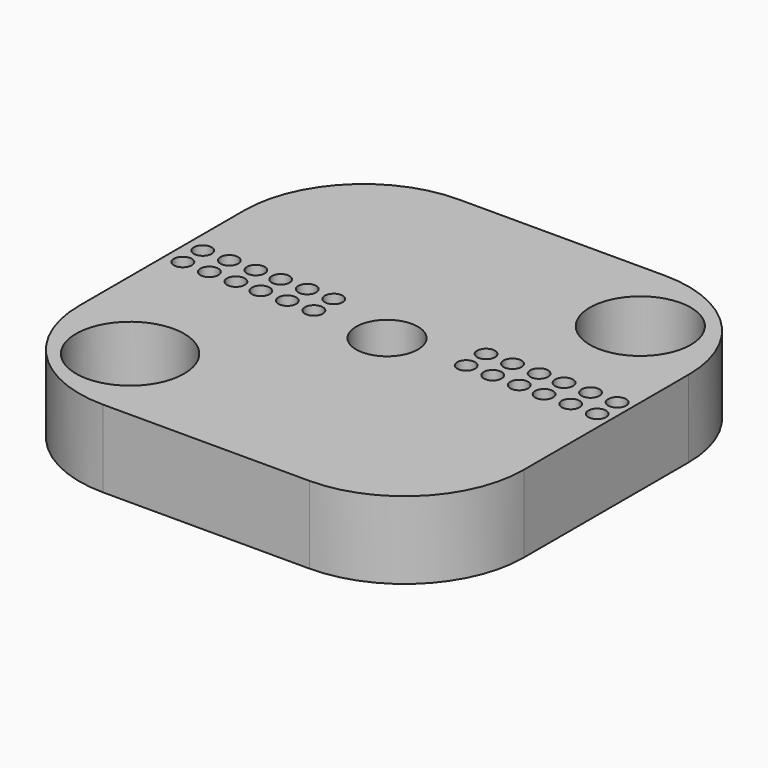
from build123d import *

# Parameters (mm, degrees)
SKETCH_R     = 12
SKETCH_R_2   = 21
SKETCH_R_3   = 19.584537
SKETCH_R_4   = 3.467704
PAD_DEPTH    = 30
PAD001_DEPTH = 30


with BuildPart() as part:
    # Sketch → Pad (new body)
    with BuildSketch(Plane.XY):
        with BuildLine():
            Line((-35.584206, -63.111127), (44.415794, -63.111127))
            ThreePointArc((44.415794, -63.111127), (77.13309, -49.55918), (90.685038, -16.841884))
            Line((90.685038, -16.841884), (90.685038, 63.158116))
            ThreePointArc((90.685038, 63.158116), (77.13309, 95.875412), (44.415794, 109.427359))
            Line((44.415794, 109.427359), (-35.584206, 109.427359))
            ThreePointArc((-35.584206, 109.427359), (-68.301501, 95.875412), (-81.853449, 63.158116))
            Line((-81.853449, 63.158116), (-81.853449, -16.841884))
            ThreePointArc((-81.853449, -16.841884), (-68.301501, -49.55918), (-35.584206, -63.111127))
        make_face()
        with Locations((4.306361, 24.767706)):
            Circle(SKETCH_R, mode=Mode.SUBTRACT)
        with Locations((-50.106209, -31.898642)):
            Circle(SKETCH_R_2, mode=Mode.SUBTRACT)
        with Locations((59.362869, 78.858307)):
            Circle(SKETCH_R_3, mode=Mode.SUBTRACT)
        with Locations((-75.219696, 34.748711)):
            Circle(SKETCH_R_4, mode=Mode.SUBTRACT)
        with Locations((-64.916733, 34.748711)):
            Circle(SKETCH_R_4, mode=Mode.SUBTRACT)
        with Locations((-54.613762, 34.748711)):
            Circle(SKETCH_R_4, mode=Mode.SUBTRACT)
        with Locations((-44.954719, 34.748711)):
            Circle(SKETCH_R_4, mode=Mode.SUBTRACT)
        with Locations((-34.651756, 34.748711)):
            Circle(SKETCH_R_4, mode=Mode.SUBTRACT)
        with Locations((-24.348785, 34.748711)):
            Circle(SKETCH_R_4, mode=Mode.SUBTRACT)
        with Locations((-75.219696, 25.089674)):
            Circle(SKETCH_R_4, mode=Mode.SUBTRACT)
        with Locations((-64.916733, 25.089674)):
            Circle(SKETCH_R_4, mode=Mode.SUBTRACT)
        with Locations((-54.613762, 25.089674)):
            Circle(SKETCH_R_4, mode=Mode.SUBTRACT)
        with Locations((-44.954719, 25.089674)):
            Circle(SKETCH_R_4, mode=Mode.SUBTRACT)
        with Locations((-34.651756, 25.089674)):
            Circle(SKETCH_R_4, mode=Mode.SUBTRACT)
        with Locations((-24.348785, 25.089674)):
            Circle(SKETCH_R_4, mode=Mode.SUBTRACT)
        with Locations((34.249382, 35.392641)):
            Circle(SKETCH_R_4, mode=Mode.SUBTRACT)
        with Locations((44.552345, 35.392641)):
            Circle(SKETCH_R_4, mode=Mode.SUBTRACT)
        with Locations((54.855316, 35.392641)):
            Circle(SKETCH_R_4, mode=Mode.SUBTRACT)
        with Locations((64.514359, 35.392641)):
            Circle(SKETCH_R_4, mode=Mode.SUBTRACT)
        with Locations((74.817322, 35.392641)):
            Circle(SKETCH_R_4, mode=Mode.SUBTRACT)
        with Locations((85.120293, 35.392641)):
            Circle(SKETCH_R_4, mode=Mode.SUBTRACT)
        with Locations((34.249382, 25.733604)):
            Circle(SKETCH_R_4, mode=Mode.SUBTRACT)
        with Locations((44.552345, 25.733604)):
            Circle(SKETCH_R_4, mode=Mode.SUBTRACT)
        with Locations((54.855316, 25.733604)):
            Circle(SKETCH_R_4, mode=Mode.SUBTRACT)
        with Locations((64.514359, 25.733604)):
            Circle(SKETCH_R_4, mode=Mode.SUBTRACT)
        with Locations((74.817322, 25.733604)):
            Circle(SKETCH_R_4, mode=Mode.SUBTRACT)
        with Locations((85.120293, 25.733604)):
            Circle(SKETCH_R_4, mode=Mode.SUBTRACT)
    extrude(amount=PAD_DEPTH)

    # Sketch → Pad001 (join)
    with BuildSketch(Plane.XY):
        with BuildLine():
            Line((-35.584206, -63.111127), (44.415794, -63.111127))
            ThreePointArc((44.415794, -63.111127), (77.13309, -49.55918), (90.685038, -16.841884))
            Line((90.685038, -16.841884), (90.685038, 63.158116))
            ThreePointArc((90.685038, 63.158116), (77.13309, 95.875412), (44.415794, 109.427359))
            Line((44.415794, 109.427359), (-35.584206, 109.427359))
            ThreePointArc((-35.584206, 109.427359), (-68.301501, 95.875412), (-81.853449, 63.158116))
            Line((-81.853449, 63.158116), (-81.853449, -16.841884))
            ThreePointArc((-81.853449, -16.841884), (-68.301501, -49.55918), (-35.584206, -63.111127))
        make_face()
        with Locations((4.306361, 24.767706)):
            Circle(SKETCH_R, mode=Mode.SUBTRACT)
        with Locations((-50.106209, -31.898642)):
            Circle(SKETCH_R_2, mode=Mode.SUBTRACT)
        with Locations((59.362869, 78.858307)):
            Circle(SKETCH_R_3, mode=Mode.SUBTRACT)
        with Locations((-75.219696, 34.748711)):
            Circle(SKETCH_R_4, mode=Mode.SUBTRACT)
        with Locations((-64.916733, 34.748711)):
            Circle(SKETCH_R_4, mode=Mode.SUBTRACT)
        with Locations((-54.613762, 34.748711)):
            Circle(SKETCH_R_4, mode=Mode.SUBTRACT)
        with Locations((-44.954719, 34.748711)):
            Circle(SKETCH_R_4, mode=Mode.SUBTRACT)
        with Locations((-34.651756, 34.748711)):
            Circle(SKETCH_R_4, mode=Mode.SUBTRACT)
        with Locations((-24.348785, 34.748711)):
            Circle(SKETCH_R_4, mode=Mode.SUBTRACT)
        with Locations((-75.219696, 25.089674)):
            Circle(SKETCH_R_4, mode=Mode.SUBTRACT)
        with Locations((-64.916733, 25.089674)):
            Circle(SKETCH_R_4, mode=Mode.SUBTRACT)
        with Locations((-54.613762, 25.089674)):
            Circle(SKETCH_R_4, mode=Mode.SUBTRACT)
        with Locations((-44.954719, 25.089674)):
            Circle(SKETCH_R_4, mode=Mode.SUBTRACT)
        with Locations((-34.651756, 25.089674)):
            Circle(SKETCH_R_4, mode=Mode.SUBTRACT)
        with Locations((-24.348785, 25.089674)):
            Circle(SKETCH_R_4, mode=Mode.SUBTRACT)
        with Locations((34.249382, 35.392641)):
            Circle(SKETCH_R_4, mode=Mode.SUBTRACT)
        with Locations((44.552345, 35.392641)):
            Circle(SKETCH_R_4, mode=Mode.SUBTRACT)
        with Locations((54.855316, 35.392641)):
            Circle(SKETCH_R_4, mode=Mode.SUBTRACT)
        with Locations((64.514359, 35.392641)):
            Circle(SKETCH_R_4, mode=Mode.SUBTRACT)
        with Locations((74.817322, 35.392641)):
            Circle(SKETCH_R_4, mode=Mode.SUBTRACT)
        with Locations((85.120293, 35.392641)):
            Circle(SKETCH_R_4, mode=Mode.SUBTRACT)
        with Locations((34.249382, 25.733604)):
            Circle(SKETCH_R_4, mode=Mode.SUBTRACT)
        with Locations((44.552345, 25.733604)):
            Circle(SKETCH_R_4, mode=Mode.SUBTRACT)
        with Locations((54.855316, 25.733604)):
            Circle(SKETCH_R_4, mode=Mode.SUBTRACT)
        with Locations((64.514359, 25.733604)):
            Circle(SKETCH_R_4, mode=Mode.SUBTRACT)
        with Locations((74.817322, 25.733604)):
            Circle(SKETCH_R_4, mode=Mode.SUBTRACT)
        with Locations((85.120293, 25.733604)):
            Circle(SKETCH_R_4, mode=Mode.SUBTRACT)
    extrude(amount=PAD001_DEPTH)


solid = part.part
